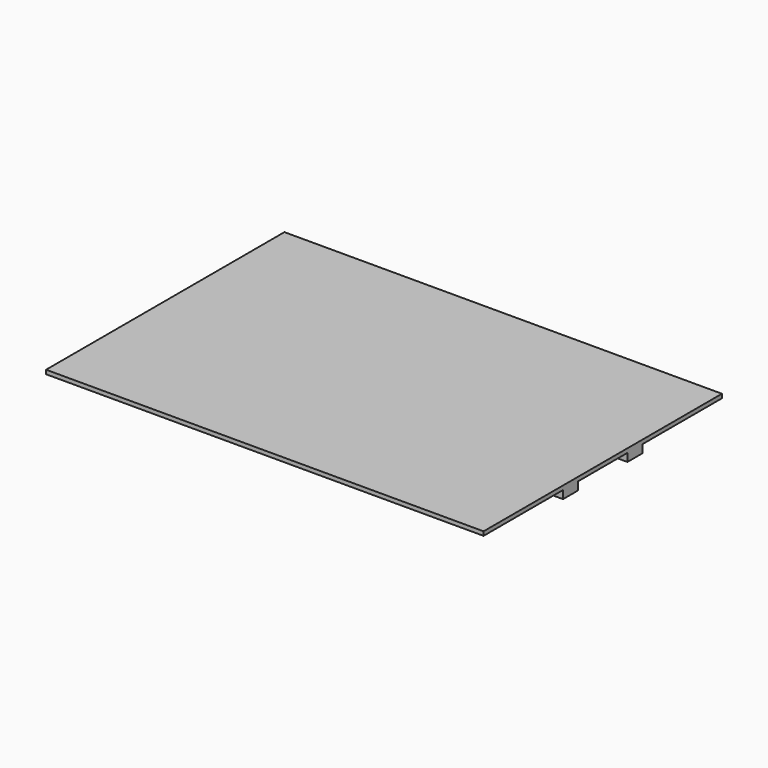
from build123d import *

# Parameters (mm, degrees)
F0_W     = 2070.1
F0_H     = 1409.7
F1_DEPTH = 19.05
F2_W     = 2070.1
F2_H     = 88.9
F3_DEPTH = 38.1


with BuildPart() as f1:
    # F0 (on Top) → F1 (new body)
    with BuildSketch(Plane.XY):
        Rectangle(F0_W, F0_H)
    extrude(amount=F1_DEPTH)

    # F2 (on face) → F3 (join)
    with BuildSketch(Plane(origin=(0, 0, 0), x_dir=(1, 0, 0), z_dir=(0, 0, -1))):
        with Locations((0, 190.5)):
            Rectangle(F2_W, F2_H)
        with Locations((0, -190.5)):
            Rectangle(F2_W, F2_H)
    extrude(amount=F3_DEPTH)


solid = f1.part
